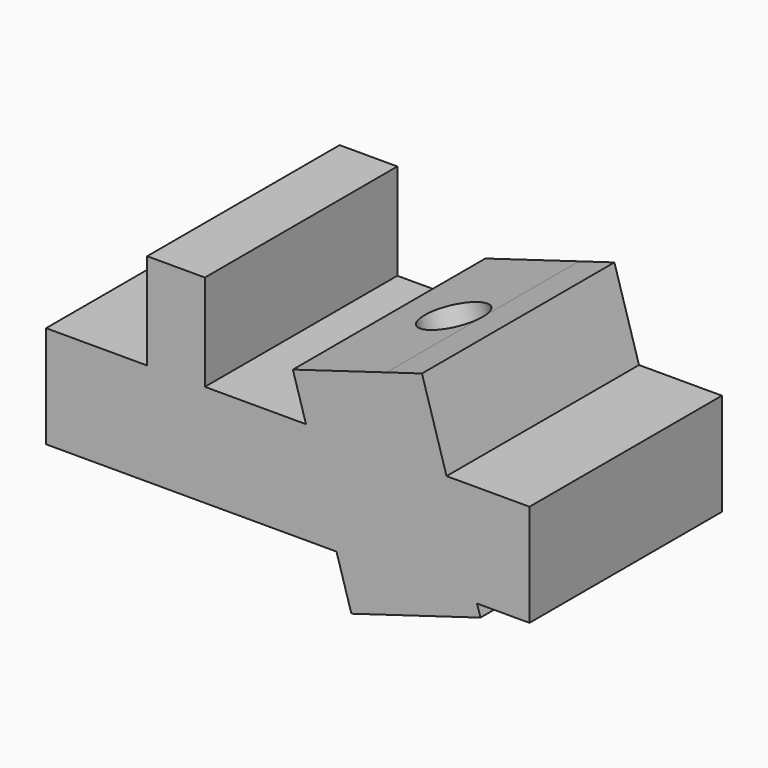
from build123d import *

# Parameters (mm, degrees)
F1_DEPTH = 12.5
F3_W     = 3
F3_H     = 25
F4_DEPTH = 10


with BuildPart() as f1:
    # F0 (on Front) → F1 (new body, symmetric)
    with BuildSketch(Plane.XZ):
        Polygon((35.3757550385, 18.083023175), (41.4529112363, -2.2769344573), (45.1420764428, -1.1757713997), (44.791125494, 0), (41.6190665075, 10.6271723926), (39.064920245, 19.1841862326), align=None)
        Polygon((0, 10.6271723926), (0, 0), (30.1807741045, 0), (27.0087151181, 10.6271723926), align=None)
        Polygon((32.3573471423, 17.1820715824), (38.4345033401, -3.1778860499), (41.4529112363, -2.2769344573), (35.3757550385, 18.083023175), align=None)
        Polygon((41.6190665075, 10.6271723926), (44.791125494, 0), (50.2377862482, 0), (50.2377862482, 10.6271723926), align=None)
        Polygon((27.0087151181, 10.6271723926), (30.1807741045, 0), (31.7269302375, -5.1800007001), (38.4345033401, -3.1778860499), (32.3573471423, 17.1820715824), (25.6497740397, 15.1799569322), align=None)
    extrude(amount=F1_DEPTH, both=True)

    # F0 (on Front) → F2 (revolve, cut)
    with BuildSketch(Plane.XZ):
        Polygon((32.3573471423, 17.1820715824), (38.4345033401, -3.1778860499), (41.4529112363, -2.2769344573), (35.3757550385, 18.083023175), align=None)
    revolve(axis=Axis((35.3959252412, 0, 7.0020927662), (0.2860163786, 0, -0.958224729)), mode=Mode.SUBTRACT)

    # F3 (on face) → F4 (join)
    with BuildSketch(Plane.XY.offset(10.6271723926)):
        with Locations((15.0043575591, 0)):
            Rectangle(F3_W, F3_H)
        with Locations((12.0043575591, 0)):
            Rectangle(F3_W, F3_H)
    extrude(amount=F4_DEPTH)


solid = f1.part
